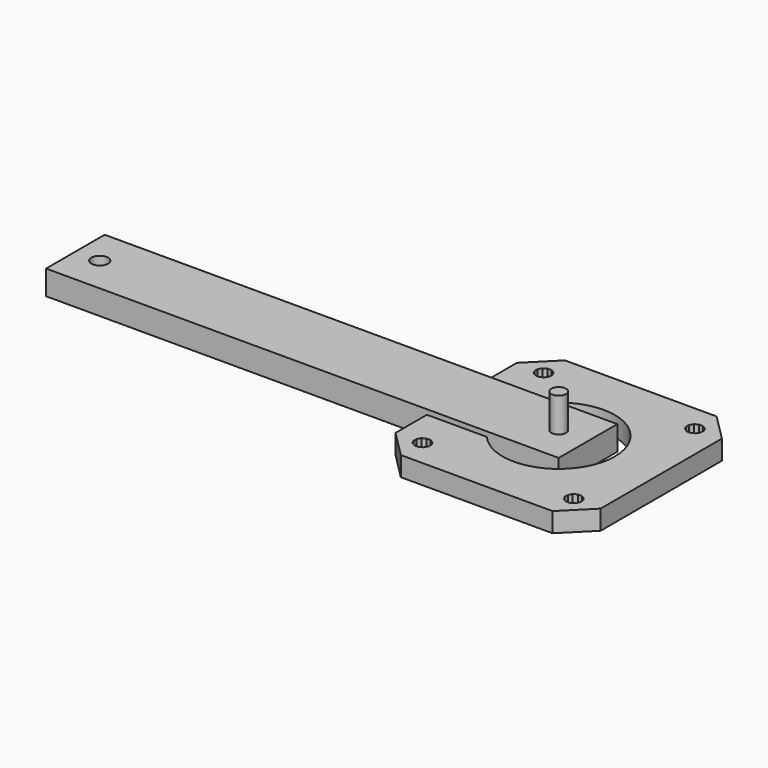
from build123d import *

# Parameters (mm, degrees)
CYLINDER_R               = 11.5
CYLINDER_DEPTH           = 8.8
PRISM001_DEPTH           = 16
CUBE002_W                = 5
CUBE002_H                = 10
CUBE002_DEPTH            = 4.2
UNION001_PLACEMENT_ANGLE = 135
PRISM002_DEPTH           = 16
CUBE003_W                = 5
CUBE003_H                = 10
CUBE003_DEPTH            = 4.2
UNION002_PLACEMENT_ANGLE = 225.000007
PRISM003_DEPTH           = 16
CUBE004_W                = 5
CUBE004_H                = 10
CUBE004_DEPTH            = 4.2
UNION003_PLACEMENT_ANGLE = -45
PRISM_DEPTH              = 16
CUBE001_W                = 5
CUBE001_H                = 10
CUBE001_DEPTH            = 4.2
UNION_PLACEMENT_ANGLE    = 45
CUBE_W                   = 42
CUBE_H                   = 42
CUBE_DEPTH               = 4
CYLINDER001_R            = 1.5
CYLINDER001_DEPTH        = 10
CYLINDER_R_2             = 1.7
CYLINDER_DEPTH_2         = 10
BOX_W                    = 105
BOX_H                    = 15
BOX_DEPTH                = 5


with BuildPart() as cylinder:
    # cylinder → cylinder (new body)
    with BuildSketch(Plane.XY.offset(-4.4)):
        Circle(CYLINDER_R)
    extrude(amount=CYLINDER_DEPTH)


with BuildPart() as prism001:
    # prism001 → prism001 (new body)
    with BuildSketch(Plane(origin=(21.9203, 0, -8), x_dir=(1, 0, 0), z_dir=(0, 0, 1))):
        Polygon((1.6, 0), (1.385641, 0.8), (0.8, 1.385641), (0, 1.6), (-0.8, 1.385641), (-1.385641, 0.8), (-1.6, 0), (-1.385641, -0.8), (-0.8, -1.385641), (0, -1.6), (0.8, -1.385641), (1.385641, -0.8), align=None)
    extrude(amount=PRISM001_DEPTH)


with BuildPart() as union001:
    # cube002 → cube002 (new body)
    with BuildSketch(Plane(origin=(25.8345, -5, -0.1), x_dir=(1, 0, 0), z_dir=(0, 0, 1))):
        with Locations((2.5, 5)):
            Rectangle(CUBE002_W, CUBE002_H)
    extrude(amount=CUBE002_DEPTH)

    # union001: union prism001
    add(prism001.part)


with BuildPart() as union001_1:
    # union001 placement: moved
    add(union001.part.rotate(Axis((0, 0, 0), (0, 0, 1)), UNION001_PLACEMENT_ANGLE))


with BuildPart() as prism002:
    # prism002 → prism002 (new body)
    with BuildSketch(Plane(origin=(21.9203, 0, -8), x_dir=(1, 0, 0), z_dir=(0, 0, 1))):
        Polygon((1.6, 0), (1.385641, 0.8), (0.8, 1.385641), (0, 1.6), (-0.8, 1.385641), (-1.385641, 0.8), (-1.6, 0), (-1.385641, -0.8), (-0.8, -1.385641), (0, -1.6), (0.8, -1.385641), (1.385641, -0.8), align=None)
    extrude(amount=PRISM002_DEPTH)


with BuildPart() as union002:
    # cube003 → cube003 (new body)
    with BuildSketch(Plane(origin=(25.8345, -5, -0.1), x_dir=(1, 0, 0), z_dir=(0, 0, 1))):
        with Locations((2.5, 5)):
            Rectangle(CUBE003_W, CUBE003_H)
    extrude(amount=CUBE003_DEPTH)

    # union002: union prism002
    add(prism002.part)


with BuildPart() as union002_1:
    # union002 placement: moved
    add(union002.part.rotate(Axis((0, 0, 0), (0, 0, 1)), UNION002_PLACEMENT_ANGLE))


with BuildPart() as prism003:
    # prism003 → prism003 (new body)
    with BuildSketch(Plane(origin=(21.9203, 0, -8), x_dir=(1, 0, 0), z_dir=(0, 0, 1))):
        Polygon((1.6, 0), (1.385641, 0.8), (0.8, 1.385641), (0, 1.6), (-0.8, 1.385641), (-1.385641, 0.8), (-1.6, 0), (-1.385641, -0.8), (-0.8, -1.385641), (0, -1.6), (0.8, -1.385641), (1.385641, -0.8), align=None)
    extrude(amount=PRISM003_DEPTH)


with BuildPart() as union003:
    # cube004 → cube004 (new body)
    with BuildSketch(Plane(origin=(25.8345, -5, -0.1), x_dir=(1, 0, 0), z_dir=(0, 0, 1))):
        with Locations((2.5, 5)):
            Rectangle(CUBE004_W, CUBE004_H)
    extrude(amount=CUBE004_DEPTH)

    # union003: union prism003
    add(prism003.part)


with BuildPart() as union003_1:
    # union003 placement: moved
    add(union003.part.rotate(Axis((0, 0, 0), (0, 0, 1)), UNION003_PLACEMENT_ANGLE))


with BuildPart() as prism:
    # prism → prism (new body)
    with BuildSketch(Plane(origin=(21.9203, 0, -8), x_dir=(1, 0, 0), z_dir=(0, 0, 1))):
        Polygon((1.6, 0), (1.385641, 0.8), (0.8, 1.385641), (0, 1.6), (-0.8, 1.385641), (-1.385641, 0.8), (-1.6, 0), (-1.385641, -0.8), (-0.8, -1.385641), (0, -1.6), (0.8, -1.385641), (1.385641, -0.8), align=None)
    extrude(amount=PRISM_DEPTH)


with BuildPart() as union004:
    # cube001 → cube001 (new body)
    with BuildSketch(Plane(origin=(25.8345, -5, -0.1), x_dir=(1, 0, 0), z_dir=(0, 0, 1))):
        with Locations((2.5, 5)):
            Rectangle(CUBE001_W, CUBE001_H)
    extrude(amount=CUBE001_DEPTH)

    # union: union prism
    add(prism.part)


with BuildPart() as union004_1:
    # union placement: moved
    add(union004.part.rotate(Axis((0, 0, 0), (0, 0, 1)), UNION_PLACEMENT_ANGLE))

    # Group: union union001, union002, union003
    add(union001_1.part)
    add(union002_1.part)
    add(union003_1.part)

    # union004: union cylinder
    add(cylinder.part)


with BuildPart() as difference:
    # cube → cube (new body)
    with BuildSketch(Plane(origin=(-21, -21, 0), x_dir=(1, 0, 0), z_dir=(0, 0, 1))):
        with Locations((21, 21)):
            Rectangle(CUBE_W, CUBE_H)
    extrude(amount=CUBE_DEPTH)

    # difference: cut union004
    add(union004_1.part, mode=Mode.SUBTRACT)


with BuildPart() as cylinder001:
    # Cylinder001 → Cylinder001 (new body)
    with BuildSketch(Plane.XY.offset(2)):
        Circle(CYLINDER001_R)
    extrude(amount=CYLINDER001_DEPTH)


with BuildPart() as cylinder_body:
    # Cylinder → Cylinder (new body)
    with BuildSketch(Plane(origin=(-94, 0, -4), x_dir=(1, 0, 0), z_dir=(0, 0, 1))):
        Circle(CYLINDER_R_2)
    extrude(amount=CYLINDER_DEPTH_2)


with BuildPart() as fusion:
    # Box → Box (new body)
    with BuildSketch(Plane(origin=(-99, -7.5, 0), x_dir=(1, 0, 0), z_dir=(0, 0, 1))):
        with Locations((52.5, 7.5)):
            Rectangle(BOX_W, BOX_H)
    extrude(amount=BOX_DEPTH)

    # Cut: cut Cylinder body
    add(cylinder_body.part, mode=Mode.SUBTRACT)

    # Fusion: union Cylinder001
    add(cylinder001.part)


solid = Compound([difference.part, fusion.part])
